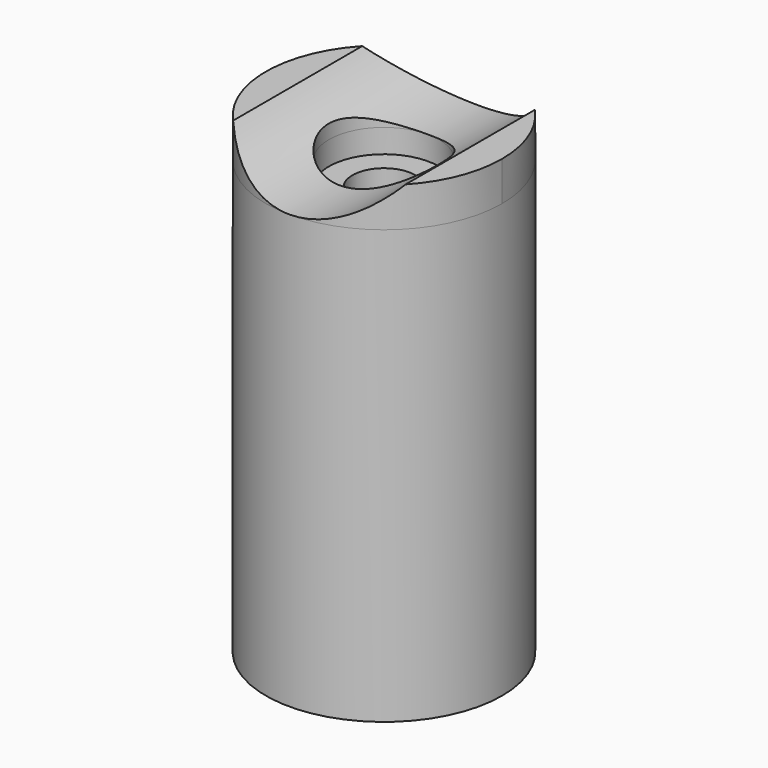
from build123d import *

# Parameters (mm, degrees)
F1_FACE_R   = 15
F1_FACE_R_2 = 7
F2_DEPTH    = 5
F4_DEPTH    = 20


with BuildPart() as f1:
    # F0 (on Front) → F1 (revolve)
    with BuildSketch(Plane.XZ):
        Polygon((7, 27), (4, 27), (4, 8), (3, 8), (3, 4.470672), (4, 3.561659), (4, 0), (4, -1), (0, -1), (0, -25), (15, -25), (15, 27), (15, 30), (7, 30), align=None)
    revolve(axis=Axis((0, 0, -12.5), (0, 0, 1)))

    # F1_face (on face) → F2 (join)
    with BuildSketch(Plane.XY.offset(30)):
        Circle(F1_FACE_R)
        Circle(F1_FACE_R_2, mode=Mode.SUBTRACT)
    extrude(amount=F2_DEPTH)

    # F3 (on Front) → F4 (cut, symmetric)
    with BuildSketch(Plane.XZ):
        with BuildLine():
            Line((10.994077, 35.048041), (-10.997782, 35.048041))
            ThreePointArc((-10.997782, 35.048041), (-0.001852, 30), (10.994077, 35.048041))
        make_face()
    extrude(amount=F4_DEPTH, both=True, mode=Mode.SUBTRACT)


solid = f1.part
